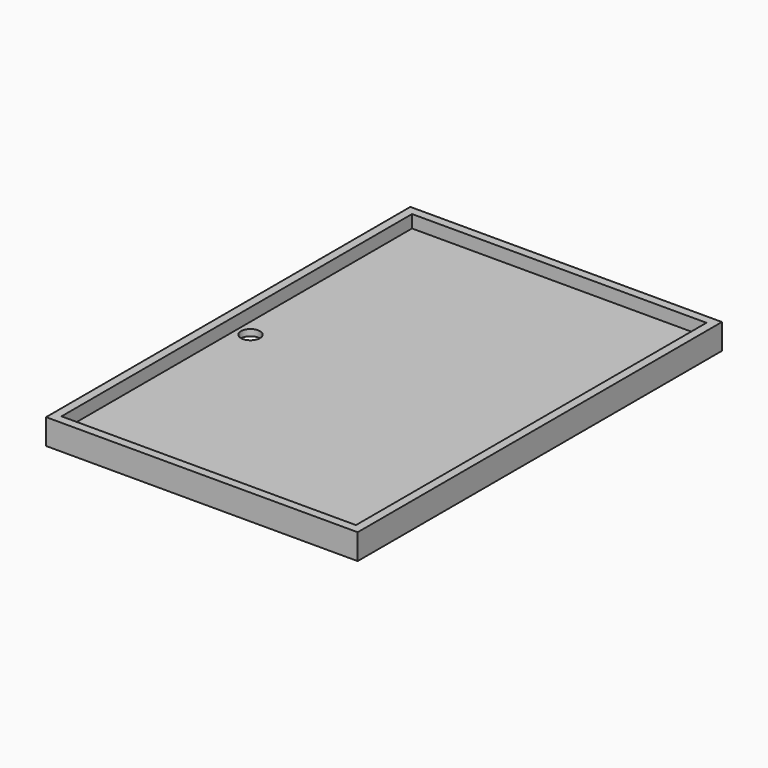
from build123d import *

# Parameters (mm, degrees)
F0_W     = 49
F0_H     = 71.6
F0_W_2   = 46.3
F0_H_2   = 68.9
F1_DEPTH = 4
F2_DEPTH = 2
F3_W     = 5.65
F3_H     = 10
F3_R     = 1.5
F3_W_2   = 1.35
F4_DEPTH = 1
F5_DEPTH = 4.9


with BuildPart() as f1:
    # F0 (on Top) → F1 (new body)
    with BuildSketch(Plane.XY):
        Rectangle(F0_W, F0_H)
        Rectangle(F0_W_2, F0_H_2, mode=Mode.SUBTRACT)
    extrude(amount=F1_DEPTH)

    # F0 (on Top) → F2 (join)
    with BuildSketch(Plane.XY):
        Rectangle(F0_W_2, F0_H_2)
    extrude(amount=F2_DEPTH)

    # F3 (on face) → F4 (cut)
    with BuildSketch(Plane.XY):
        with Locations((-20.325, 0)):
            Rectangle(F3_W, F3_H)
        with Locations((-21, 0)):
            Circle(F3_R, mode=Mode.SUBTRACT)
        with Locations((-23.825, 0)):
            Rectangle(F3_W_2, F3_H)
    extrude(amount=F4_DEPTH, mode=Mode.SUBTRACT)

    # F3 (on face) → F5 (cut)
    with BuildSketch(Plane.XY):
        with Locations((-21, 0)):
            Circle(F3_R)
    extrude(amount=F5_DEPTH, mode=Mode.SUBTRACT)


solid = f1.part
